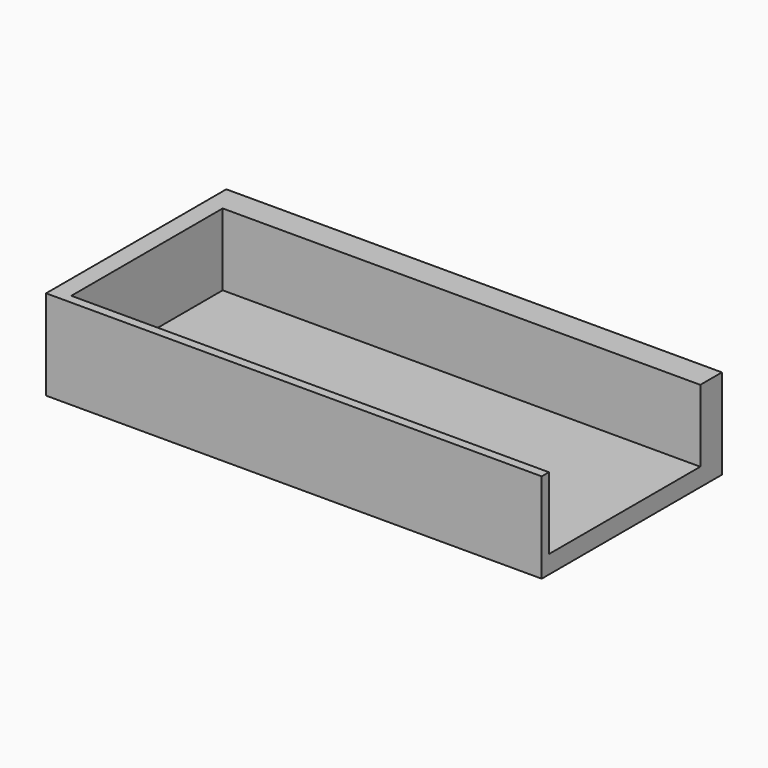
from build123d import *

# Parameters (mm, degrees)
BOX002_W     = 53
BOX002_H     = 21
BOX002_DEPTH = 8
BOX001_W     = 55
BOX001_H     = 25
BOX001_DEPTH = 10


with BuildPart() as cube002:
    # Box002 → Box002 (new body)
    with BuildSketch(Plane(origin=(-7, -53, 2), x_dir=(1, 0, 0), z_dir=(0, 0, 1))):
        with Locations((26.5, 10.5)):
            Rectangle(BOX002_W, BOX002_H)
    extrude(amount=BOX002_DEPTH)


with BuildPart() as cut:
    # Box001 → Box001 (new body)
    with BuildSketch(Plane(origin=(-9, -54, 0), x_dir=(1, 0, 0), z_dir=(0, 0, 1))):
        with Locations((27.5, 12.5)):
            Rectangle(BOX001_W, BOX001_H)
    extrude(amount=BOX001_DEPTH)

    # Cut: cut Cube002
    add(cube002.part, mode=Mode.SUBTRACT)


with BuildPart() as cut_1:
    # Cut placement: moved
    add(cut.part.moved(Location((0, 0, -1))))


solid = cut_1.part
